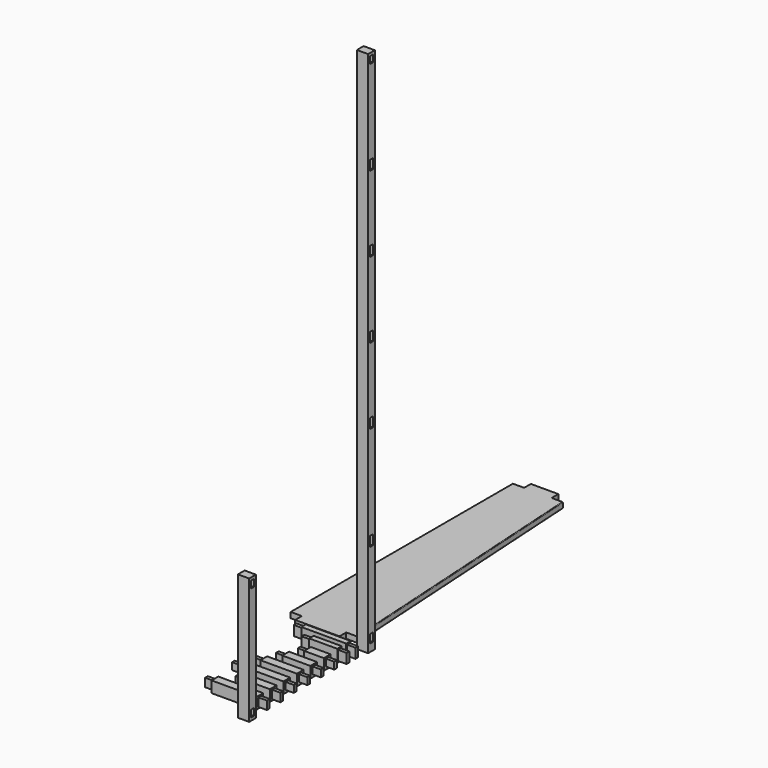
from build123d import *

# Parameters (mm, degrees)
F1_W      = 12
F1_H      = 35
F2_DEPTH  = 220
F3_START  = -30
F1_W_2    = 20
F1_H_2    = 45
F3_DEPTH  = 160
F4_DEPTH  = 160
F5_START  = -30
F5_DEPTH  = 100
F7_DEPTH  = 20
F8_R      = 2
F0_W      = 30
F0_H      = 1880
F0_W_2    = 12
F0_H_2    = 30
F0_H_3    = 35
F0_H_4    = 25
F9_DEPTH  = 40
F10_DEPTH = 35
F11_W     = 12
F11_H     = 25
F12_DEPTH = 130
F13_START = -30
F11_W_2   = 30
F11_H_2   = 40
F13_DEPTH = 70
F14_DEPTH = 160
F15_START = -30
F15_DEPTH = 100
F16_DEPTH = 190
F17_START = -30
F17_DEPTH = 130
F18_DEPTH = 220
F19_START = -30
F19_DEPTH = 160
F11_H_3   = 30
F20_DEPTH = 160
F21_START = -30
F21_DEPTH = 100
F22_DEPTH = 220
F23_START = -30
F23_DEPTH = 160
F24_W     = 30
F24_H     = 450
F24_W_2   = 12
F24_H_2   = 25
F25_DEPTH = 40
F26_DEPTH = 30


with BuildPart() as f2:
    # F1 (on Right) → F2 (new body)
    with BuildSketch(Plane.YZ):
        with Locations((-50, 22.5)):
            Rectangle(F1_W, F1_H)
    extrude(amount=-F2_DEPTH)

    # F1 (on Right) → F3 (join)
    with BuildSketch(Plane.YZ.offset(F3_START)):
        with Locations((-50, 22.5)):
            Rectangle(F1_W_2, F1_H_2)
        with Locations((-50, 22.5)):
            Rectangle(F1_W, F1_H, mode=Mode.SUBTRACT)
    extrude(amount=-F3_DEPTH)


with BuildPart() as f4:
    # F1 (on Right) → F4 (new body)
    with BuildSketch(Plane.YZ):
        with Locations((-90, 22.5)):
            Rectangle(F1_W, F1_H)
    extrude(amount=-F4_DEPTH)

    # F1 (on Right) → F5 (join)
    with BuildSketch(Plane.YZ.offset(F5_START)):
        with Locations((-90, 22.5)):
            Rectangle(F1_W_2, F1_H_2)
        with Locations((-90, 22.5)):
            Rectangle(F1_W, F1_H, mode=Mode.SUBTRACT)
    extrude(amount=-F5_DEPTH)


with BuildPart() as f7:
    # F6 (on Top) → F7 (new body)
    with BuildSketch(Plane.XY):
        Polygon((-260, 0), (-102, 0), (-102, 30), (-62, 30), (-122, 1020), (-162, 1020), (-162, 1050), (-260, 1050), (-260, 1020), (-300, 1020), (-300, 30), (-260, 30), align=None)
    extrude(amount=F7_DEPTH)

    # F8
    f8_edges = [f7.edges().sort_by_distance(p)[0] for p in [
        (-92, 525, 20),
        (-92, 525, 0),
    ]]
    fillet(f8_edges, radius=F8_R)


with BuildPart() as f9:
    # F0 (on Right) → F9 (new body)
    with BuildSketch(Plane.YZ):
        with Locations((15, 940)):
            Rectangle(F0_W, F0_H)
        with Locations((15, 42)):
            Rectangle(F0_W_2, F0_H_2, mode=Mode.SUBTRACT)
        with Locations((15, 347.5)):
            Rectangle(F0_W_2, F0_H_3, mode=Mode.SUBTRACT)
        with Locations((15, 717.5)):
            Rectangle(F0_W_2, F0_H_3, mode=Mode.SUBTRACT)
        with Locations((15, 987.5)):
            Rectangle(F0_W_2, F0_H_3, mode=Mode.SUBTRACT)
        with Locations((15, 1257.5)):
            Rectangle(F0_W_2, F0_H_3, mode=Mode.SUBTRACT)
        with Locations((15, 1527.5)):
            Rectangle(F0_W_2, F0_H_3, mode=Mode.SUBTRACT)
        with Locations((15, 1857.5)):
            Rectangle(F0_W_2, F0_H_4, mode=Mode.SUBTRACT)
        with Locations((15, 1527.5)):
            Rectangle(F0_W_2, F0_H_3)
        with Locations((15, 1257.5)):
            Rectangle(F0_W_2, F0_H_3)
        with Locations((15, 987.5)):
            Rectangle(F0_W_2, F0_H_3)
        with Locations((15, 717.5)):
            Rectangle(F0_W_2, F0_H_3)
        with Locations((15, 347.5)):
            Rectangle(F0_W_2, F0_H_3)
        with Locations((15, 42)):
            Rectangle(F0_W_2, F0_H_2)
        with Locations((15, 1857.5)):
            Rectangle(F0_W_2, F0_H_4)
    extrude(amount=-F9_DEPTH)

    # F0 (on Right) → F10 (cut)
    with BuildSketch(Plane.YZ):
        with Locations((15, 42)):
            Rectangle(F0_W_2, F0_H_2)
        with Locations((15, 347.5)):
            Rectangle(F0_W_2, F0_H_3)
        with Locations((15, 717.5)):
            Rectangle(F0_W_2, F0_H_3)
        with Locations((15, 987.5)):
            Rectangle(F0_W_2, F0_H_3)
        with Locations((15, 1257.5)):
            Rectangle(F0_W_2, F0_H_3)
        with Locations((15, 1527.5)):
            Rectangle(F0_W_2, F0_H_3)
        with Locations((15, 1857.5)):
            Rectangle(F0_W_2, F0_H_4)
    extrude(amount=-F10_DEPTH, mode=Mode.SUBTRACT)


with BuildPart() as f12:
    # F11 (on Right) → F12 (new body)
    with BuildSketch(Plane.YZ):
        with Locations((-145, 22.5)):
            Rectangle(F11_W, F11_H)
    extrude(amount=-F12_DEPTH)

    # F11 (on Right) → F13 (join)
    with BuildSketch(Plane.YZ.offset(F13_START)):
        with Locations((-145, 20)):
            Rectangle(F11_W_2, F11_H_2)
        with Locations((-145, 22.5)):
            Rectangle(F11_W, F11_H, mode=Mode.SUBTRACT)
    extrude(amount=-F13_DEPTH)


with BuildPart() as f14:
    # F11 (on Right) → F14 (new body)
    with BuildSketch(Plane.YZ):
        with Locations((-205, 22.5)):
            Rectangle(F11_W, F11_H)
    extrude(amount=-F14_DEPTH)

    # F11 (on Right) → F15 (join)
    with BuildSketch(Plane.YZ.offset(F15_START)):
        with Locations((-205, 20)):
            Rectangle(F11_W_2, F11_H_2)
        with Locations((-205, 22.5)):
            Rectangle(F11_W, F11_H, mode=Mode.SUBTRACT)
    extrude(amount=-F15_DEPTH)


with BuildPart() as f16:
    # F11 (on Right) → F16 (new body)
    with BuildSketch(Plane.YZ):
        with Locations((-265, 22.5)):
            Rectangle(F11_W, F11_H)
    extrude(amount=-F16_DEPTH)

    # F11 (on Right) → F17 (join)
    with BuildSketch(Plane.YZ.offset(F17_START)):
        with Locations((-265, 20)):
            Rectangle(F11_W_2, F11_H_2)
        with Locations((-265, 22.5)):
            Rectangle(F11_W, F11_H, mode=Mode.SUBTRACT)
    extrude(amount=-F17_DEPTH)


with BuildPart() as f18:
    # F11 (on Right) → F18 (new body)
    with BuildSketch(Plane.YZ):
        with Locations((-325, 22.5)):
            Rectangle(F11_W, F11_H)
    extrude(amount=-F18_DEPTH)

    # F11 (on Right) → F19 (join)
    with BuildSketch(Plane.YZ.offset(F19_START)):
        with Locations((-325, 20)):
            Rectangle(F11_W_2, F11_H_2)
        with Locations((-325, 22.5)):
            Rectangle(F11_W, F11_H, mode=Mode.SUBTRACT)
    extrude(amount=-F19_DEPTH)


with BuildPart() as f20:
    # F11 (on Right) → F20 (new body)
    with BuildSketch(Plane.YZ):
        with Locations((-385, 20)):
            Rectangle(F11_W, F11_H_3)
    extrude(amount=-F20_DEPTH)

    # F11 (on Right) → F21 (join)
    with BuildSketch(Plane.YZ.offset(F21_START)):
        with Locations((-385, 20)):
            Rectangle(F11_W_2, F11_H_2)
        with Locations((-385, 20)):
            Rectangle(F11_W, F11_H_3, mode=Mode.SUBTRACT)
    extrude(amount=-F21_DEPTH)


with BuildPart() as f22:
    # F11 (on Right) → F22 (new body)
    with BuildSketch(Plane.YZ):
        with Locations((-445, 20)):
            Rectangle(F11_W, F11_H_3)
    extrude(amount=-F22_DEPTH)

    # F11 (on Right) → F23 (join)
    with BuildSketch(Plane.YZ.offset(F23_START)):
        with Locations((-445, 20)):
            Rectangle(F11_W_2, F11_H_2)
        with Locations((-445, 20)):
            Rectangle(F11_W, F11_H_3, mode=Mode.SUBTRACT)
    extrude(amount=-F23_DEPTH)


with BuildPart() as f25:
    # F24 (on Right) → F25 (new body)
    with BuildSketch(Plane.YZ):
        with Locations((-515, 225)):
            Rectangle(F24_W, F24_H)
        with Locations((-515, 22.5)):
            Rectangle(F24_W_2, F24_H_2, mode=Mode.SUBTRACT)
        with Locations((-515, 427.5)):
            Rectangle(F24_W_2, F24_H_2, mode=Mode.SUBTRACT)
        with Locations((-515, 427.5)):
            Rectangle(F24_W_2, F24_H_2)
        with Locations((-515, 22.5)):
            Rectangle(F24_W_2, F24_H_2)
    extrude(amount=-F25_DEPTH)

    # F24 (on Right) → F26 (cut)
    with BuildSketch(Plane.YZ):
        with Locations((-515, 427.5)):
            Rectangle(F24_W_2, F24_H_2)
        with Locations((-515, 22.5)):
            Rectangle(F24_W_2, F24_H_2)
    extrude(amount=-F26_DEPTH, mode=Mode.SUBTRACT)


solid = Compound([f2.part, f4.part, f7.part, f9.part, f12.part, f14.part, f16.part, f18.part, f20.part, f22.part, f25.part])
